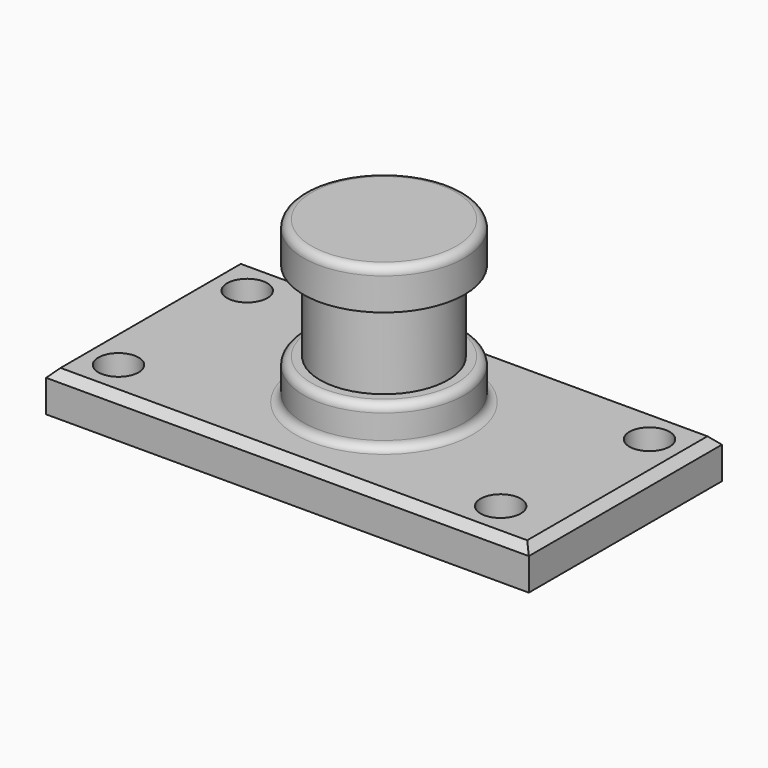
from build123d import *

# Parameters (mm, degrees)
F0_W     = 152.4
F0_H     = 76.2
F1_DEPTH = 12.7
F2_R     = 6.35
F3_DEPTH = 12.701
F4_DEPTH = 12.701
F5_DEPTH = 12.701
F6_DEPTH = 12.701
F7_W     = 25.4
F7_H     = 50.8
F9_W     = 10.16
F9_H     = 25.4
F11_R    = 2.54
F12_SIZE = 2.54


with BuildPart() as f1:
    # F0 (on Top) → F1 (new body)
    with BuildSketch(Plane.XY):
        Rectangle(F0_W, F0_H)
    extrude(amount=F1_DEPTH)

    # F2 (on face) → F3 (cut, through all)
    with BuildSketch(Plane.XY.offset(12.7)):
        with Locations((57.15, -25.4)):
            Circle(F2_R)
    extrude(amount=-F3_DEPTH, mode=Mode.SUBTRACT)

    # F2 (on face) → F4 (cut, through all)
    with BuildSketch(Plane.XY.offset(12.7)):
        with Locations((63.5, 25.4)):
            Circle(F2_R)
    extrude(amount=-F4_DEPTH, mode=Mode.SUBTRACT)

    # F2 (on face) → F5 (cut, through all)
    with BuildSketch(Plane.XY.offset(12.7)):
        with Locations((-63.5, -25.4)):
            Circle(F2_R)
    extrude(amount=-F5_DEPTH, mode=Mode.SUBTRACT)

    # F2 (on face) → F6 (cut, through all)
    with BuildSketch(Plane.XY.offset(12.7)):
        with Locations((-63.5, 25.4)):
            Circle(F2_R)
    extrude(amount=-F6_DEPTH, mode=Mode.SUBTRACT)

    # F7 (on Front) → F8 (revolve)
    with BuildSketch(Plane.XZ):
        with Locations((12.7, 38.1)):
            Rectangle(F7_W, F7_H)
    revolve(axis=Axis((0, 0, 38.1), (0, 0, -1)))

    # F9 (on Front) → F10 (revolve, cut)
    with BuildSketch(Plane.XZ):
        with Locations((-25.2770464867, 38.1)):
            Rectangle(F9_W, F9_H)
    revolve(axis=Axis((0, 0, 38.1), (0, 0, -1)), mode=Mode.SUBTRACT)

    # F11
    f11_edges = [f1.edges().sort_by_distance(p)[0] for p in [
        (-25.4, 0, 12.7),
        (-25.4, 0, 25.4),
        (-25.4, 0, 63.5),
    ]]
    fillet(f11_edges, radius=F11_R)

    # F12
    f12_edges = [f1.edges().sort_by_distance(p)[0] for p in [
        (0, -38.1, 12.7),
        (-76.2, 0, 12.7),
        (0, 38.1, 12.7),
        (76.2, 0, 12.7),
    ]]
    chamfer(f12_edges, length=F12_SIZE)


solid = f1.part
